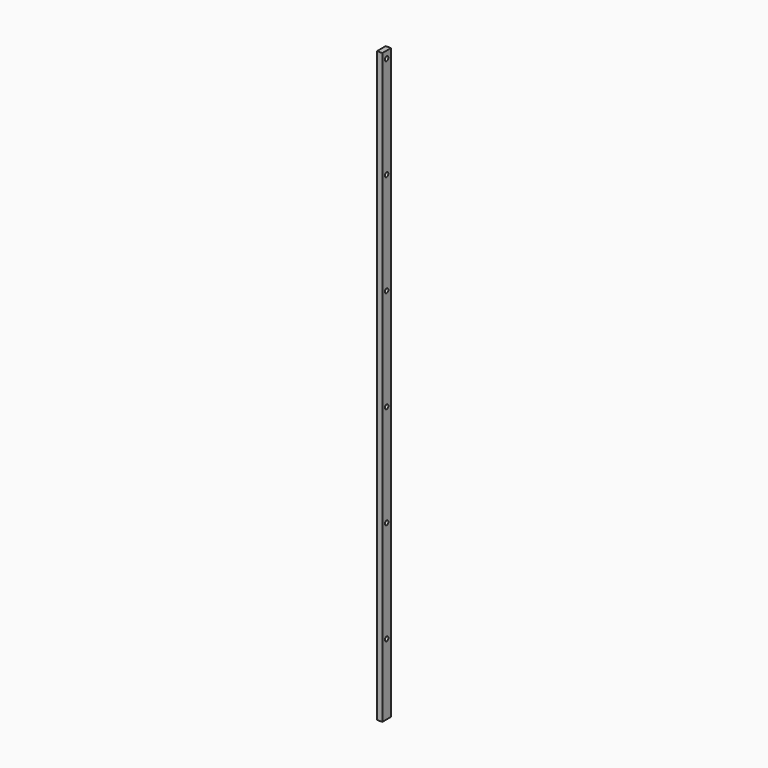
from build123d import *

# Parameters (mm, degrees)
F0_W     = 22
F0_H     = 2450
F1_DEPTH = 45
F3_D     = 3
F4_D     = 18
F4_DEPTH = 15
F4_TIP   = 5.4077455712


with BuildPart() as f1:
    # F0 (on Front) → F1 (new body)
    with BuildSketch(Plane.XZ):
        Rectangle(F0_W, F0_H)
    extrude(amount=F1_DEPTH)

    # F3 (through all)
    with Locations(Plane.YZ.offset(11)):
        with Locations((-22.5, 1195), (-22.5, 770), (-22.5, 345), (-22.5, -80), (-22.5, -505), (-22.5, -930)):
            Hole(F3_D / 2)

    # F4
    with Locations(Plane.YZ.offset(11)):
        with Locations((-22.5, 1195), (-22.5, 770), (-22.5, 345), (-22.5, -80), (-22.5, -505), (-22.5, -930)):
            Hole(F4_D / 2, depth=F4_DEPTH)
            with Locations((0, 0, -(F4_DEPTH + F4_TIP / 2))):  # 118° drill point
                Cone(0, F4_D / 2, F4_TIP, mode=Mode.SUBTRACT)


solid = f1.part
